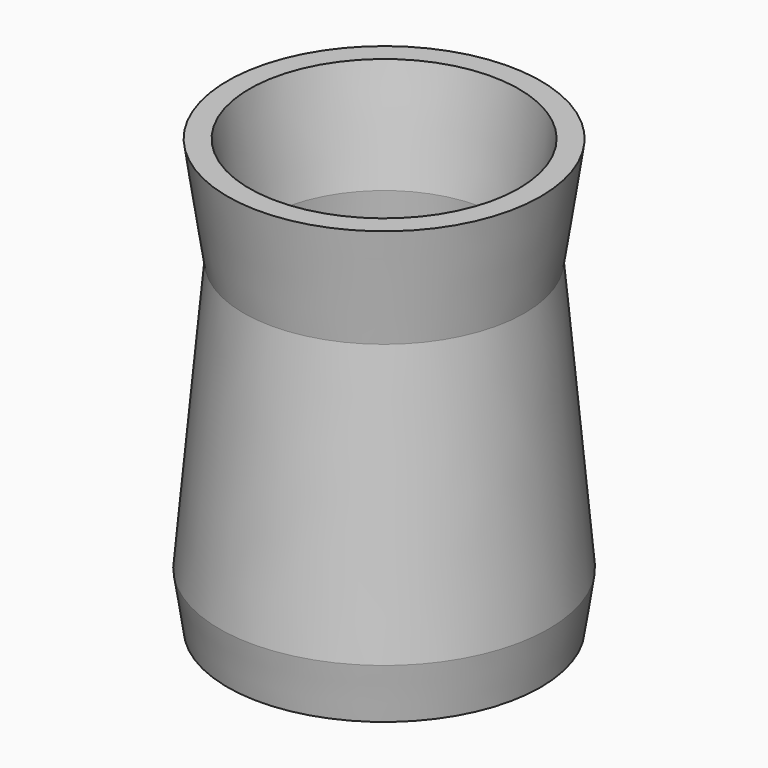
from build123d import *

# Parameters (mm, degrees)
F0_R      = 14.5
F2_R      = 15.25
F3_FACE_R = 15.25
F5_R      = 13
F6_FACE_R = 13
F8_R      = 14.5
F10_T     = -2


with BuildPart() as f3:
    # F0 (on Top) → F3 section 0
    with BuildSketch(Plane.XY):
        Circle(F0_R)
    # F2 (on offset) → F3 section 1
    with BuildSketch(Plane.XY.offset(5)):
        Circle(F2_R)
    loft()

    # F3_face (on face) → F6 section 0
    with BuildSketch(Plane.XY.offset(5)):
        Circle(F3_FACE_R)
    # F5 (on offset) → F6 section 1
    with BuildSketch(Plane.XY.offset(30)):
        Circle(F5_R)
    loft()

    # F6_face (on face) → F9 section 0
    with BuildSketch(Plane.XY.offset(30)):
        Circle(F6_FACE_R)
    # F8 (on offset) → F9 section 1
    with BuildSketch(Plane.XY.offset(40)):
        Circle(F8_R)
    loft()

    # F10
    f10_openings = [f3.faces().sort_by_distance(p)[0] for p in [
        (0, 0, 40),
        (0, 0, 0),
    ]]
    offset(amount=F10_T, openings=f10_openings, kind=Kind.INTERSECTION)


solid = f3.part
